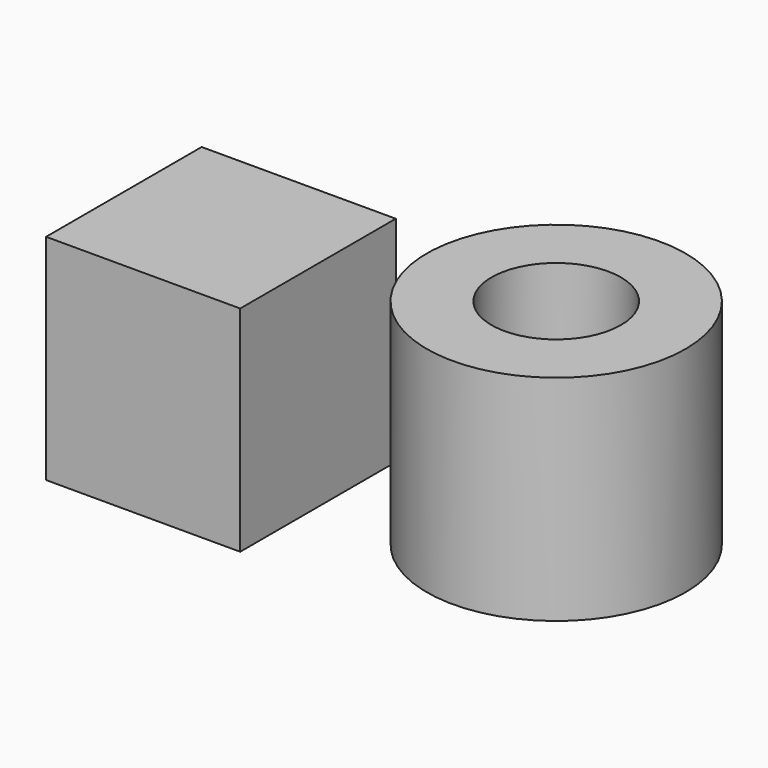
from build123d import *

# Parameters (mm, degrees)
F0_W     = 76.2
F0_H     = 76.3321408214
F1_DEPTH = 84.074
F0_R     = 50.8
F2_T     = -25.4


with BuildPart() as f1:
    # F0 (on Top) → F1 (new body)
    with BuildSketch(Plane.XY):
        with Locations((-77.9446905811, 7.8171525478)):
            Rectangle(F0_W, F0_H)
    extrude(amount=F1_DEPTH)


with BuildPart() as f1b:
    # F0 (on Top) → F1, piece 2 (new body)
    with BuildSketch(Plane.XY):
        with Locations((32.7674816028, 33.9336769251)):
            Circle(F0_R)
    extrude(amount=F1_DEPTH)

    # F2
    f2_openings = [f1b.faces().sort_by_distance(p)[0] for p in [
        (32.767482, 33.933677, 84.074),
    ]]
    offset(amount=F2_T, openings=f2_openings)


solid = Compound([f1.part, f1b.part])
